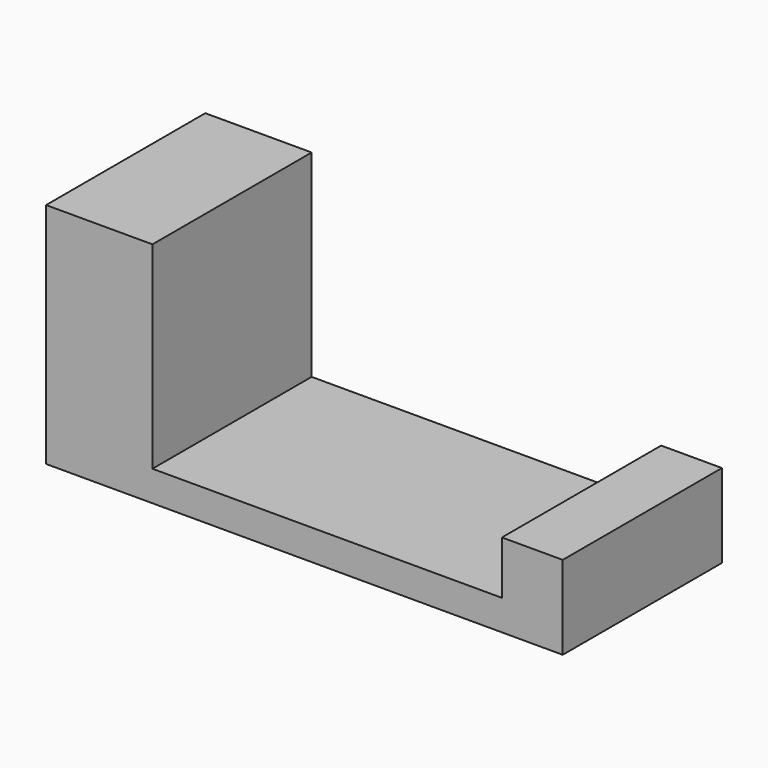
from build123d import *

# Parameters (mm, degrees)
F0_W     = 7
F0_H     = 13.09483
F1_DEPTH = 15
F0_W_2   = 23
F2_DEPTH = 2
F0_W_3   = 4
F3_DEPTH = 5.5


with BuildPart() as f1:
    # F0 (on Top) → F1 (new body)
    with BuildSketch(Plane.XY):
        with Locations((-26.5, 6.547415)):
            Rectangle(F0_W, F0_H)
    extrude(amount=F1_DEPTH)

    # F0 (on Top) → F2 (join)
    with BuildSketch(Plane.XY):
        with Locations((-11.5, 6.547415)):
            Rectangle(F0_W_2, F0_H)
    extrude(amount=F2_DEPTH)

    # F0 (on Top) → F3 (join)
    with BuildSketch(Plane.XY):
        with Locations((2, 6.547415)):
            Rectangle(F0_W_3, F0_H)
    extrude(amount=F3_DEPTH)


solid = f1.part
